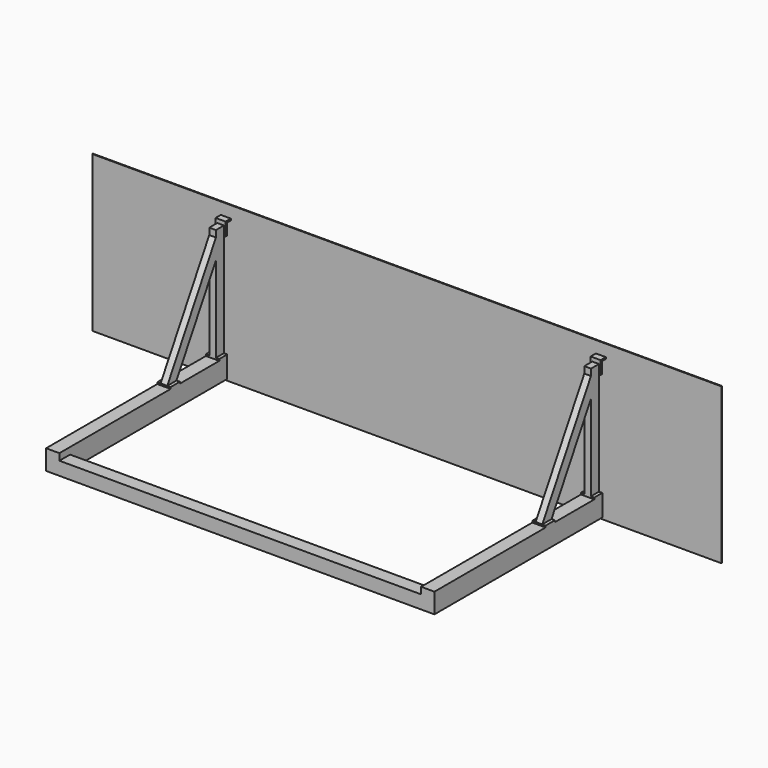
from build123d import *

# Parameters (mm, degrees)
F0_W      = 37.3
F0_H      = 12.7
F1_DEPTH  = 76.2
F2_W      = 50.8
F2_H      = 787.3
F2_H_2    = 70
F3_DEPTH  = 76.2
F4_W      = 25.4
F4_H      = 76.2
F4_W_2    = 50.8
F5_DEPTH  = 12.7
F7_DEPTH  = 50.8
F8_W      = 25.4
F8_H      = 87.8800762295
F8_W_2    = 50.8
F9_DEPTH  = 12.7
F10_W     = 101.6
F10_H     = 152.4
F11_DEPTH = 1600
F12_W     = 101.6
F12_H     = 101.6
F13_DEPTH = 1379.2
F15_W     = 4796.8
F15_H     = 1187.4
F15_W_2   = 76.2
F15_H_2   = 12.7
F16_DEPTH = 6.35


with BuildPart() as f1:
    # F0 (on Right) → F1 (new body)
    with BuildSketch(Plane.YZ):
        with Locations((-18.65, 153.8194847476)):
            Rectangle(F0_W, F0_H)
        Polygon((-37.3, 147.4694847476), (-37.3, 160.1694847476), (-50, 160.1694847476), (-50, 60.1694847476), (-37.3, 60.1694847476), align=None)
    extrude(amount=F1_DEPTH)

    # F2 (on face) → F3 (join)
    with BuildSketch(Plane.XZ.offset(50)):
        with Locations((38.1, -333.4805152524)):
            Rectangle(F2_W, F2_H)
        with Locations((38.1, 95.1694847476)):
            Rectangle(F2_W, F2_H_2)
    extrude(amount=F3_DEPTH)

    # F4 (on face) → F5 (join)
    with BuildSketch(Plane(origin=(0, 0, -727.1305152524), x_dir=(1, 0, 0), z_dir=(0, 0, -1))):
        with Locations((0, 88.1)):
            Rectangle(F4_W, F4_H)
        with Locations((38.1, 88.1)):
            Rectangle(F4_W_2, F4_H)
        with Locations((76.2, 88.1)):
            Rectangle(F4_W, F4_H)
    extrude(amount=F5_DEPTH)

    # F6 (on face) → F7 (join, through all)
    with BuildSketch(Plane(origin=(12.7, 0, 0), x_dir=(0, -1, 0), z_dir=(-1, 0, 0))):
        Polygon((590, -727.1305152524), (126.2, 80.1694847476), (126.2, -72.7964176673), (502.1199237705, -727.1305152524), align=None)
    extrude(amount=-F7_DEPTH)

    # F8 (on face) → F9 (join)
    with BuildSketch(Plane(origin=(0, 0, -727.1305152524), x_dir=(1, 0, 0), z_dir=(0, 0, -1))):
        with Locations((0, 546.0599618853)):
            Rectangle(F8_W, F8_H)
        with Locations((38.1, 546.0599618853)):
            Rectangle(F8_W_2, F8_H)
        with Locations((76.2, 546.0599618853)):
            Rectangle(F8_W, F8_H)
    extrude(amount=F9_DEPTH)

    # F10 (on face) → F11 (join)
    with BuildSketch(Plane(origin=(0, -50, 0), x_dir=(-1, 0, 0), z_dir=(0, 1, 0))):
        with Locations((-38.1, -816.0305152524)):
            Rectangle(F10_W, F10_H)
    extrude(amount=-F11_DEPTH)

    # F12 (on face) → F13 (join)
    with BuildSketch(Plane.YZ.offset(88.9)):
        with Locations((-1599.2, -841.4305152524)):
            Rectangle(F12_W, F12_H)
    extrude(amount=F13_DEPTH)

    # F14: F1 across face


with BuildPart() as f1_1:
    add(f1.part)
    add(f1.part.mirror(Plane(origin=(1468.1, -1599.2, -841.4305152524), x_dir=(0, 1, 0), z_dir=(1, 0, 0))))

    # F15 (on face) → F16 (join)
    with BuildSketch(Plane(origin=(0, 0, 0), x_dir=(-1, 0, 0), z_dir=(0, 1, 0))):
        with Locations((-1417.9, -343.5305152524)):
            Rectangle(F15_W, F15_H)
        with Locations((-38.1, 153.8194847476)):
            Rectangle(F15_W_2, F15_H_2, mode=Mode.SUBTRACT)
        with Locations((-38.1, 153.8194847476)):
            Rectangle(F15_W_2, F15_H_2)
    extrude(amount=F16_DEPTH)


solid = f1_1.part
